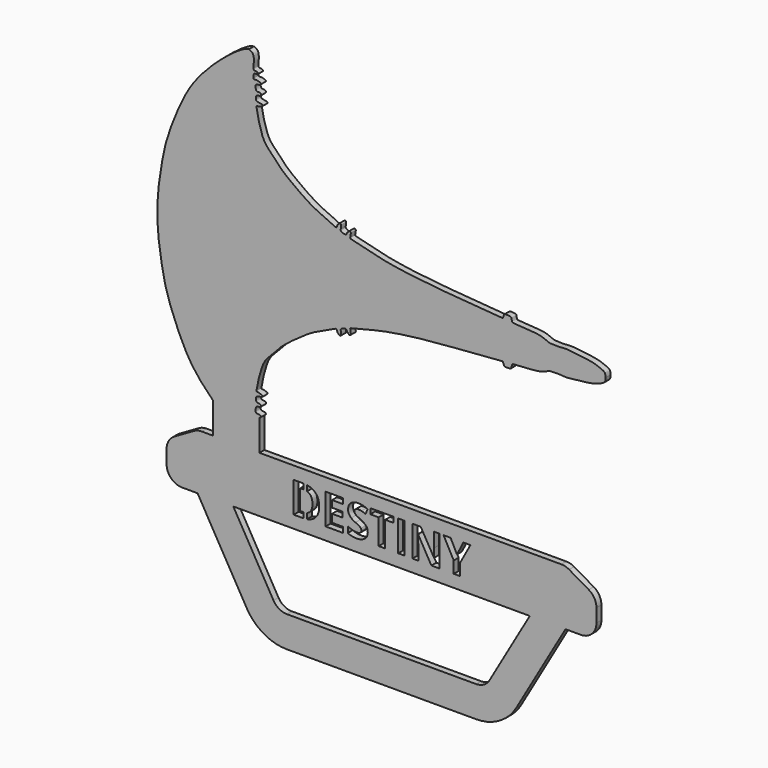
from build123d import *

# Parameters (mm, degrees)
F1_DEPTH = 2
F2_W     = 2.1028645833
F2_H     = 9.9153645833
F3_DEPTH = 2
F5_DEPTH = 2
F6_R     = 5
F7_R     = 15


with BuildPart() as f1:
    # F0 (on Front) → F1 (new body)
    with BuildSketch(Plane.XZ):
        with BuildLine():
            add(Edge.make_bspline(
                [(-25.6579965353, 55.9421218932), (-25.2596935321, 55.7807542414), (-24.4191629942, 55.4402234445), (-23.9607891725, 53.879547366), (-24.1719489365, 51.6246333201), (-24.3241491067, 50.6613180882), (-23.6955274649, 50.3392218475), (-23.2335181468, 50.4388537859), (-22.7584026297, 50.1707458548), (-22.6955515688, 49.6928238068), (-23.2768015575, 49.6146166523), (-23.8217239561, 49.7016776792), (-24.1701957292, 49.31446376), (-24.2253709324, 48.8057752089), (-24.1199713856, 48.3099081057), (-24.3272559419, 47.8544550611), (-23.1380374981, 48.0060264538), (-22.6623931306, 47.8076343895), (-21.8079224591, 47.6272380483), (-21.7771868962, 47.0634354886), (-22.5756411308, 46.7728595059), (-23.4391657392, 46.8775152012), (-23.5815936396, 45.8941889089), (-23.3479382562, 44.7421417082), (-22.6879642534, 44.7550457308), (-21.7795773426, 44.7334926692), (-21.6909695481, 43.8346539963), (-22.6351860672, 43.7119493916), (-23.3224685255, 43.7078986077), (-23.4377928507, 42.6976491826), (-23.3027327943, 41.8710496142), (-22.3992281672, 41.8362177059), (-21.8328069338, 41.645343253), (-21.251956632, 41.6557223314), (-21.2958691246, 40.9884399452), (-21.8342865935, 40.9929792945), (-22.4116369996, 40.6243337434), (-23.3372889482, 40.7045557811), (-23.1279550655, 39.8935017097), (-22.8204399055, 37.8527809877), (-21.9161427964, 34.2775039615), (-20.6251984832, 30.6420097094), (-17.4618304636, 27.8602422726), (-15.3757583207, 25.1545866503), (-11.1227028294, 21.9726370339), (-5.2054895054, 17.6431643536), (0.5203557302, 15.4217716998), (2.6751470565, 14.1101353474), (2.7585201329, 15.1275140287), (3.3736426527, 15.785782818), (3.6469544613, 16.0189304798), (4.08330845, 15.8900873589), (4.1051400999, 15.4634252898), (4.0808491266, 14.6163734471), (3.8155566843, 14.0722517572), (4.6415067796, 13.4466423206), (5.8687274534, 13.3034251807), (5.9021633706, 13.9694104735), (6.3890810222, 14.4064242932), (6.7519696932, 14.8450905882), (7.2967993378, 14.677212139), (7.2129149524, 13.995918304), (7.1694729256, 13.4240414132), (6.9172914004, 12.7082519567), (8.09755688, 12.5564305592), (13.5540353879, 11.0564615141), (19.0643619361, 9.822340629), (26.2244984367, 8.7390514529), (34.9079015957, 7.7717331261), (41.138040168, 7.3562327739), (49.2745340367, 6.7429662567), (56.0323312693, 6.0574605393), (56.379319878, 6.2568894061), (56.5897794176, 6.7711975258), (56.7802107053, 7.3846827221), (57.0933147248, 7.5693404052), (58.7012701073, 7.457641478), (59.1256978044, 7.255275928), (59.2081820929, 6.5474579215), (59.2670836541, 6.0713612363), (59.5946058665, 5.8128733256), (60.5348644651, 5.857696572), (65.2206349661, 5.5010822648), (68.9149015119, 5.2163614808), (71.5261419938, 3.8195583839), (72.1802139455, 4.0236636212), (74.280335334, 3.7568419575), (76.770304045, 4.1740031242), (79.1666108914, 3.7379267507), (83.0818418153, 3.4158489764), (86.0653644255, 2.9136533689), (88.3779083496, 1.9656452105), (89.4613460468, 1.3660594936), (89.4984560381, 0.466925857), (89.5177274942, 0)],
                knots=[0, 0, 0, 0, 0.0104342785, 0.0220192408, 0.0363539313, 0.0450802406, 0.0520553552, 0.0585033871, 0.0651000601, 0.0705839048, 0.0771478436, 0.0841110939, 0.0903673371, 0.097028108, 0.1038242228, 0.1088612149, 0.1179801081, 0.1254993834, 0.1336993844, 0.1393890903, 0.1476440164, 0.1557432615, 0.1643364361, 0.1740039885, 0.1810599145, 0.1894888752, 0.1966269045, 0.2051669152, 0.2124189237, 0.2212572344, 0.2293209451, 0.2375798301, 0.2451582512, 0.2515218225, 0.2577538805, 0.2640203839, 0.2720074456, 0.2799535588, 0.2869168637, 0.3003873822, 0.3186004793, 0.3370784883, 0.3559780379, 0.3732155135, 0.3945941861, 0.4205258907, 0.4442820507, 0.4568590605, 0.4644826869, 0.4734433831, 0.4788842925, 0.4844218012, 0.4902417497, 0.4989517536, 0.5056589543, 0.5146854849, 0.5243431403, 0.5309285843, 0.5385350974, 0.5453869674, 0.5512998662, 0.5585462576, 0.5660813892, 0.5730696241, 0.5815789628, 0.6036800761, 0.626654494, 0.6519557989, 0.6796083851, 0.7031144868, 0.7310802554, 0.7544386338, 0.7592030576, 0.7660330285, 0.7734326184, 0.7788588642, 0.7906380041, 0.7969064571, 0.8044937824, 0.8109936398, 0.8163107161, 0.82484812, 0.8450464285, 0.864216822, 0.8793563907, 0.8867544548, 0.8999988599, 0.9150262044, 0.9297084528, 0.948265339, 0.9649737911, 0.9796175076, 0.9894152411, 1, 1, 1, 1], degree=3))
            add(Edge.make_bspline(
                [(-25.6579965353, 55.9421218932), (-26.1392927659, 55.8489616191), (-27.6847340008, 55.549824165), (-34.9237006505, 50.3306810954), (-43.1442550524, 41.8488811033), (-47.3608978233, 34.447471491), (-52.0337669924, 23.2138563286), (-53.641054019, 15.7615071765), (-55.1439903017, 6.3644331906), (-55.1842430483, 1.9824921822), (-55.2024543285, 0)],
                knots=[0, 0, 0, 0, 0.0589326611, 0.1892326571, 0.343829692, 0.4752815326, 0.6275545586, 0.7530728895, 0.8882844235, 1, 1, 1, 1], degree=3))
            add(Edge.make_bspline(
                [(-25.6579965353, -55.9421218932), (-26.1392927659, -55.8489616191), (-27.6847340008, -55.549824165), (-34.9237006505, -50.3306810954), (-43.1442550524, -41.8488811033), (-47.3608978233, -34.447471491), (-52.0337669924, -23.2138563286), (-53.641054019, -15.7615071765), (-55.1439903017, -6.3644331906), (-55.1842430483, -1.9824921822), (-55.2024543285, 0)],
                knots=[0, 0, 0, 0, 0.0589326611, 0.1892326571, 0.343829692, 0.4752815326, 0.6275545586, 0.7530728895, 0.8882844235, 1, 1, 1, 1], degree=3))
            add(Edge.make_bspline(
                [(-25.6579965353, -55.9421218932), (-25.2596935321, -55.7807542414), (-24.4191629942, -55.4402234445), (-23.9607891725, -53.879547366), (-24.1719489365, -51.6246333201), (-24.3241491067, -50.6613180882), (-23.6955274649, -50.3392218475), (-23.2335181468, -50.4388537859), (-22.7584026297, -50.1707458548), (-22.6955515688, -49.6928238068), (-23.2768015575, -49.6146166523), (-23.8217239561, -49.7016776792), (-24.1701957292, -49.31446376), (-24.2253709324, -48.8057752089), (-24.1199713856, -48.3099081057), (-24.3272559419, -47.8544550611), (-23.1380374981, -48.0060264538), (-22.6623931306, -47.8076343895), (-21.8079224591, -47.6272380483), (-21.7771868962, -47.0634354886), (-22.5756411308, -46.7728595059), (-23.4391657392, -46.8775152012), (-23.5815936396, -45.8941889089), (-23.3479382562, -44.7421417082), (-22.6879642534, -44.7550457308), (-21.7795773426, -44.7334926692), (-21.6909695481, -43.8346539963), (-22.6351860672, -43.7119493916), (-23.3224685255, -43.7078986077), (-23.4377928507, -42.6976491826), (-23.3027327943, -41.8710496142), (-22.3992281672, -41.8362177059), (-21.8328069338, -41.645343253), (-21.251956632, -41.6557223314), (-21.2958691246, -40.9884399452), (-21.8342865935, -40.9929792945), (-22.4116369996, -40.6243337434), (-23.3372889482, -40.7045557811), (-23.1279550655, -39.8935017097), (-22.8204399055, -37.8527809877), (-21.9161427964, -34.2775039615), (-20.6251984832, -30.6420097094), (-17.4618304636, -27.8602422726), (-15.3757583207, -25.1545866503), (-11.1227028294, -21.9726370339), (-5.2054895054, -17.6431643536), (0.5203557302, -15.4217716998), (2.6751470565, -14.1101353474), (2.7585201329, -15.1275140287), (3.3736426527, -15.785782818), (3.6469544613, -16.0189304798), (4.08330845, -15.8900873589), (4.1051400999, -15.4634252898), (4.0808491266, -14.6163734471), (3.8155566843, -14.0722517572), (4.6415067796, -13.4466423206), (5.8687274534, -13.3034251807), (5.9021633706, -13.9694104735), (6.3890810222, -14.4064242932), (6.7519696932, -14.8450905882), (7.2967993378, -14.677212139), (7.2129149524, -13.995918304), (7.1694729256, -13.4240414132), (6.9172914004, -12.7082519567), (8.09755688, -12.5564305592), (13.5540353879, -11.0564615141), (19.0643619361, -9.822340629), (26.2244984367, -8.7390514529), (34.9079015957, -7.7717331261), (41.138040168, -7.3562327739), (49.2745340367, -6.7429662567), (56.0323312693, -6.0574605393), (56.379319878, -6.2568894061), (56.5897794176, -6.7711975258), (56.7802107053, -7.3846827221), (57.0933147248, -7.5693404052), (58.7012701073, -7.457641478), (59.1256978044, -7.255275928), (59.2081820929, -6.5474579215), (59.2670836541, -6.0713612363), (59.5946058665, -5.8128733256), (60.5348644651, -5.857696572), (65.2206349661, -5.5010822648), (68.9149015119, -5.2163614808), (71.5261419938, -3.8195583839), (72.1802139455, -4.0236636212), (74.280335334, -3.7568419575), (76.770304045, -4.1740031242), (79.1666108914, -3.7379267507), (83.0818418153, -3.4158489764), (86.0653644255, -2.9136533689), (88.3779083496, -1.9656452105), (89.4613460468, -1.3660594936), (89.4984560381, -0.466925857), (89.5177274942, 0)],
                knots=[0, 0, 0, 0, 0.0104342785, 0.0220192408, 0.0363539313, 0.0450802406, 0.0520553552, 0.0585033871, 0.0651000601, 0.0705839048, 0.0771478436, 0.0841110939, 0.0903673371, 0.097028108, 0.1038242228, 0.1088612149, 0.1179801081, 0.1254993834, 0.1336993844, 0.1393890903, 0.1476440164, 0.1557432615, 0.1643364361, 0.1740039885, 0.1810599145, 0.1894888752, 0.1966269045, 0.2051669152, 0.2124189237, 0.2212572344, 0.2293209451, 0.2375798301, 0.2451582512, 0.2515218225, 0.2577538805, 0.2640203839, 0.2720074456, 0.2799535588, 0.2869168637, 0.3003873822, 0.3186004793, 0.3370784883, 0.3559780379, 0.3732155135, 0.3945941861, 0.4205258907, 0.4442820507, 0.4568590605, 0.4644826869, 0.4734433831, 0.4788842925, 0.4844218012, 0.4902417497, 0.4989517536, 0.5056589543, 0.5146854849, 0.5243431403, 0.5309285843, 0.5385350974, 0.5453869674, 0.5512998662, 0.5585462576, 0.5660813892, 0.5730696241, 0.5815789628, 0.6036800761, 0.626654494, 0.6519557989, 0.6796083851, 0.7031144868, 0.7310802554, 0.7544386338, 0.7592030576, 0.7660330285, 0.7734326184, 0.7788588642, 0.7906380041, 0.7969064571, 0.8044937824, 0.8109936398, 0.8163107161, 0.82484812, 0.8450464285, 0.864216822, 0.8793563907, 0.8867544548, 0.8999988599, 0.9150262044, 0.9297084528, 0.948265339, 0.9649737911, 0.9796175076, 0.9894152411, 1, 1, 1, 1], degree=3))
        make_face()
    extrude(amount=F1_DEPTH)

    # F2 (on face) → F3 (join, through all)
    with BuildSketch(Plane.XZ.offset(2)):
        Polygon((56.3754675717, -110.717872268), (76.5827269934, -75.717872268), (65.0357216096, -75.717872268), (50.6019648798, -100.717872268), (-16.2866917141, -100.717872268), (-30.7204484439, -75.717872268), (-42.2674538277, -75.717872268), (-22.060194406, -110.717872268), align=None)
        with BuildLine():
            add(Edge.make_bspline(
                [(-25.6579965353, -55.9421218932), (-25.2596935321, -55.7807542414), (-24.4191629942, -55.4402234445), (-23.9607891725, -53.879547366), (-24.1719489365, -51.6246333201), (-24.3241491067, -50.6613180882), (-23.6955274649, -50.3392218475), (-23.2335181468, -50.4388537859), (-22.7584026297, -50.1707458548), (-22.6955515688, -49.6928238068), (-23.2768015575, -49.6146166523), (-23.8217239561, -49.7016776792), (-24.1701957292, -49.31446376), (-24.2253709324, -48.8057752089), (-24.1199713856, -48.3099081057), (-24.3272559419, -47.8544550611), (-23.1380374981, -48.0060264538), (-22.7522356963, -47.8451078745), (-22.3804355397, -47.7536306112), (-22.2674538277, -47.717872268)],
                knots=[0, 0, 0, 0, 0.0104342785, 0.0220192408, 0.0363539313, 0.0450802406, 0.0520553552, 0.0585033871, 0.0651000601, 0.0705839048, 0.0771478436, 0.0841110939, 0.0903673371, 0.097028108, 0.1038242228, 0.1088612149, 0.1179801081, 0.1254993834, 0.1290078017, 0.1290078017, 0.1290078017, 0.1290078017], degree=3))
            Line((-22.2674538277, -47.717872268), (-37.2674538277, -47.717872268))
            add(Edge.make_bspline(
                [(-25.6579965353, -55.9421218932), (-26.1392927659, -55.8489616191), (-27.6847340008, -55.549824165), (-32.6943601509, -51.9379888205), (-36.3159280116, -48.6366878856), (-37.2674538277, -47.717872268)],
                knots=[0, 0, 0, 0, 0.0589326611, 0.1892326571, 0.2379425544, 0.2379425544, 0.2379425544, 0.2379425544], degree=3))
        make_face()
        with BuildLine():
            Line((-22.2674538277, -57.717872268), (-22.2674538277, -47.717872268))
            add(Edge.make_bspline(
                [(-25.6579965353, -55.9421218932), (-25.2596935321, -55.7807542414), (-24.4191629942, -55.4402234445), (-23.9607891725, -53.879547366), (-24.1719489365, -51.6246333201), (-24.3241491067, -50.6613180882), (-23.6955274649, -50.3392218475), (-23.2335181468, -50.4388537859), (-22.7584026297, -50.1707458548), (-22.6955515688, -49.6928238068), (-23.2768015575, -49.6146166523), (-23.8217239561, -49.7016776792), (-24.1701957292, -49.31446376), (-24.2253709324, -48.8057752089), (-24.1199713856, -48.3099081057), (-24.3272559419, -47.8544550611), (-23.1380374981, -48.0060264538), (-22.7522356963, -47.8451078745), (-22.3804355397, -47.7536306112), (-22.2674538277, -47.717872268)],
                knots=[0, 0, 0, 0, 0.0104342785, 0.0220192408, 0.0363539313, 0.0450802406, 0.0520553552, 0.0585033871, 0.0651000601, 0.0705839048, 0.0771478436, 0.0841110939, 0.0903673371, 0.097028108, 0.1038242228, 0.1088612149, 0.1179801081, 0.1254993834, 0.1290078017, 0.1290078017, 0.1290078017, 0.1290078017], degree=3))
            add(Edge.make_bspline(
                [(-25.6579965353, -55.9421218932), (-26.1392927659, -55.8489616191), (-27.6847340008, -55.549824165), (-32.6943601509, -51.9379888205), (-36.3159280116, -48.6366878856), (-37.2674538277, -47.717872268)],
                knots=[0, 0, 0, 0, 0.0589326611, 0.1892326571, 0.2379425544, 0.2379425544, 0.2379425544, 0.2379425544], degree=3))
            Line((-37.2674538277, -47.717872268), (-37.2674538277, -57.717872268))
            Line((-37.2674538277, -57.717872268), (-22.2674538277, -57.717872268))
        make_face()
        Polygon((76.5827269934, -57.717872268), (-22.2674538277, -57.717872268), (-37.2674538277, -57.717872268), (-42.2674538277, -57.717872268), (-52.2674538277, -63.4913749599), (-52.2674538277, -75.717872268), (-42.2674538277, -75.717872268), (-30.7204484439, -75.717872268), (65.0357216096, -75.717872268), (76.5827269934, -75.717872268), (86.5827269934, -75.717872268), (86.5827269934, -63.4913749599), align=None)
        with BuildLine():
            add(Edge.make_bspline(
                [(-4.3158877227, -63.0839746986), (-2.9725717505, -64.3654417124), (-2.9725717505, -66.6657889347)],
                knots=[0, 0, 0, 1, 1, 1], degree=2))
            add(Edge.make_bspline(
                [(-2.9725717505, -66.6657889347), (-2.9725717505, -69.1137056013), (-4.3668859866, -70.4157889347)],
                knots=[0, 0, 0, 1, 1, 1], degree=2))
            add(Edge.make_bspline(
                [(-4.3668859866, -70.4157889347), (-5.7612002227, -71.717872268), (-8.391408556, -71.717872268)],
                knots=[0, 0, 0, 1, 1, 1], degree=2))
            Line((-8.391408556, -71.717872268), (-11.1995682783, -71.717872268))
            Line((-11.1995682783, -71.717872268), (-11.1995682783, -61.8025076847))
            Line((-11.1995682783, -61.8025076847), (-8.0875891116, -61.8025076847))
            add(Edge.make_bspline(
                [(-8.0875891116, -61.8025076847), (-5.6592036949, -61.8025076847), (-4.3158877227, -63.0839746986)],
                knots=[0, 0, 0, 1, 1, 1], degree=2))
        make_face(mode=Mode.SUBTRACT)
        Polygon((4.792185194, -69.9817611569), (4.792185194, -71.717872268), (-0.9174502227, -71.717872268), (-0.9174502227, -61.8025076847), (4.792185194, -61.8025076847), (4.792185194, -63.5255979624), (1.1854143606, -63.5255979624), (1.1854143606, -65.702247268), (4.5426192217, -65.702247268), (4.5426192217, -67.4253375458), (1.1854143606, -67.4253375458), (1.1854143606, -69.9817611569), align=None, mode=Mode.SUBTRACT)
        with BuildLine():
            add(Edge.make_bspline(
                [(12.1977841523, -67.3265962263), (12.7131921384, -67.9939139347), (12.7131921384, -68.963966018)],
                knots=[0, 0, 0, 1, 1, 1], degree=2))
            add(Edge.make_bspline(
                [(12.7131921384, -68.963966018), (12.7131921384, -70.3072819902), (11.7463952634, -71.0809365041)],
                knots=[0, 0, 0, 1, 1, 1], degree=2))
            add(Edge.make_bspline(
                [(11.7463952634, -71.0809365041), (10.7795983884, -71.854591018), (9.0586782495, -71.854591018)],
                knots=[0, 0, 0, 1, 1, 1], degree=2))
            add(Edge.make_bspline(
                [(9.0586782495, -71.854591018), (7.4701365829, -71.854591018), (6.2505185273, -71.2556326847)],
                knots=[0, 0, 0, 1, 1, 1], degree=2))
            Line((6.2505185273, -71.2556326847), (6.2505185273, -69.3025076847))
            add(Edge.make_bspline(
                [(6.2505185273, -69.3025076847), (7.253122694, -69.7517264347), (7.9486522079, -69.9340181013)],
                knots=[0, 0, 0, 1, 1, 1], degree=2))
            add(Edge.make_bspline(
                [(7.9486522079, -69.9340181013), (8.6441817217, -70.116309768), (9.2214386662, -70.116309768)],
                knots=[0, 0, 0, 1, 1, 1], degree=2))
            add(Edge.make_bspline(
                [(9.2214386662, -70.116309768), (9.9115428329, -70.116309768), (10.2815515134, -69.852637893)],
                knots=[0, 0, 0, 1, 1, 1], degree=2))
            add(Edge.make_bspline(
                [(10.2815515134, -69.852637893), (10.651560194, -69.588966018), (10.651560194, -69.0659625458)],
                knots=[0, 0, 0, 1, 1, 1], degree=2))
            add(Edge.make_bspline(
                [(10.651560194, -69.0659625458), (10.651560194, -68.7751639347), (10.4887997773, -68.5472993513)],
                knots=[0, 0, 0, 1, 1, 1], degree=2))
            add(Edge.make_bspline(
                [(10.4887997773, -68.5472993513), (10.3260393606, -68.319434768), (10.0102841523, -68.1100163652)],
                knots=[0, 0, 0, 1, 1, 1], degree=2))
            add(Edge.make_bspline(
                [(10.0102841523, -68.1100163652), (9.694528944, -67.9005979624), (8.7244768606, -67.4383583791)],
                knots=[0, 0, 0, 1, 1, 1], degree=2))
            add(Edge.make_bspline(
                [(8.7244768606, -67.4383583791), (7.8173588051, -67.010841018), (7.3627147079, -66.6180458791)],
                knots=[0, 0, 0, 1, 1, 1], degree=2))
            add(Edge.make_bspline(
                [(7.3627147079, -66.6180458791), (6.9080706106, -66.2252507402), (6.6368032495, -65.702247268)],
                knots=[0, 0, 0, 1, 1, 1], degree=2))
            add(Edge.make_bspline(
                [(6.6368032495, -65.702247268), (6.3655358884, -65.1792437958), (6.3655358884, -64.4826292124)],
                knots=[0, 0, 0, 1, 1, 1], degree=2))
            add(Edge.make_bspline(
                [(6.3655358884, -64.4826292124), (6.3655358884, -63.1653549069), (7.2574629717, -62.4134017819)],
                knots=[0, 0, 0, 1, 1, 1], degree=2))
            add(Edge.make_bspline(
                [(7.2574629717, -62.4134017819), (8.1493900551, -61.6614486569), (9.7227407495, -61.6614486569)],
                knots=[0, 0, 0, 1, 1, 1], degree=2))
            add(Edge.make_bspline(
                [(9.7227407495, -61.6614486569), (10.495310194, -61.6614486569), (11.1973501245, -61.8437403236)],
                knots=[0, 0, 0, 1, 1, 1], degree=2))
            add(Edge.make_bspline(
                [(11.1973501245, -61.8437403236), (11.8993900551, -62.0260319902), (12.6654490829, -62.3580632402)],
                knots=[0, 0, 0, 1, 1, 1], degree=2))
            Line((12.6654490829, -62.3580632402), (11.9883657495, -63.9943479624))
            add(Edge.make_bspline(
                [(11.9883657495, -63.9943479624), (11.1940949162, -63.6688271291), (10.6754317217, -63.5397038652)],
                knots=[0, 0, 0, 1, 1, 1], degree=2))
            add(Edge.make_bspline(
                [(10.6754317217, -63.5397038652), (10.1567685273, -63.4105806013), (9.655466444, -63.4105806013)],
                knots=[0, 0, 0, 1, 1, 1], degree=2))
            add(Edge.make_bspline(
                [(9.655466444, -63.4105806013), (9.0586782495, -63.4105806013), (8.7396678329, -63.6883583791)],
                knots=[0, 0, 0, 1, 1, 1], degree=2))
            add(Edge.make_bspline(
                [(8.7396678329, -63.6883583791), (8.4206574162, -63.9661361569), (8.4206574162, -64.413184768)],
                knots=[0, 0, 0, 1, 1, 1], degree=2))
            add(Edge.make_bspline(
                [(8.4206574162, -64.413184768), (8.4206574162, -64.6909625458), (8.5497806801, -64.8982108097)],
                knots=[0, 0, 0, 1, 1, 1], degree=2))
            add(Edge.make_bspline(
                [(8.5497806801, -64.8982108097), (8.678903944, -65.1054590736), (8.9599369301, -65.2986014347)],
                knots=[0, 0, 0, 1, 1, 1], degree=2))
            add(Edge.make_bspline(
                [(8.9599369301, -65.2986014347), (9.2409699162, -65.4917437958), (10.2913171384, -65.9930458791)],
                knots=[0, 0, 0, 1, 1, 1], degree=2))
            add(Edge.make_bspline(
                [(10.2913171384, -65.9930458791), (11.6823761662, -66.659278518), (12.1977841523, -67.3265962263)],
                knots=[0, 0, 0, 1, 1, 1], degree=2))
        make_face(mode=Mode.SUBTRACT)
        Polygon((18.3360219995, -63.5516396291), (18.3360219995, -71.717872268), (16.2331574162, -71.717872268), (16.2331574162, -63.5516396291), (13.5400150551, -63.5516396291), (13.5400150551, -61.8025076847), (21.0269942217, -61.8025076847), (21.0269942217, -63.5516396291), align=None, mode=Mode.SUBTRACT)
        with Locations((23.6040341523, -66.7601899763)):
            Rectangle(F2_W, F2_H, mode=Mode.SUBTRACT)
        with BuildLine():
            Line((35.9466990829, -61.8025076847), (35.9466990829, -71.717872268))
            Line((35.9466990829, -71.717872268), (33.2752581106, -71.717872268))
            Line((33.2752581106, -71.717872268), (28.9610219995, -64.217872268))
            Line((28.9610219995, -64.217872268), (28.9002581106, -64.217872268))
            add(Edge.make_bspline(
                [(28.9002581106, -64.217872268), (29.030466444, -66.2035493513), (29.030466444, -67.0520736569)],
                knots=[0, 0, 0, 1, 1, 1], degree=2))
            Line((29.030466444, -67.0520736569), (29.030466444, -71.717872268))
            Line((29.030466444, -71.717872268), (27.1511261662, -71.717872268))
            Line((27.1511261662, -71.717872268), (27.1511261662, -61.8025076847))
            Line((27.1511261662, -61.8025076847), (29.8030358884, -61.8025076847))
            Line((29.8030358884, -61.8025076847), (34.108591444, -69.2287229624))
            Line((34.108591444, -69.2287229624), (34.1563344995, -69.2287229624))
            add(Edge.make_bspline(
                [(34.1563344995, -69.2287229624), (34.0543379717, -67.2951292124), (34.0543379717, -66.4965181013)],
                knots=[0, 0, 0, 1, 1, 1], degree=2))
            Line((34.0543379717, -66.4965181013), (34.0543379717, -61.8025076847))
            Line((34.0543379717, -61.8025076847), (35.9466990829, -61.8025076847))
        make_face(mode=Mode.SUBTRACT)
        Polygon((39.4731747773, -61.8025076847), (41.5282963051, -65.8845389347), (43.5964386662, -61.8025076847), (45.8620636662, -61.8025076847), (42.5721331106, -67.8593653236), (42.5721331106, -71.717872268), (40.4844594995, -71.717872268), (40.4844594995, -67.9266396291), (37.194528944, -61.8025076847), align=None, mode=Mode.SUBTRACT)
    extrude(amount=-F3_DEPTH)



with BuildPart() as f3:
    # F2 (on face) → F3, piece 2 (new body, through all)
    with BuildSketch(Plane.XZ.offset(2)):
        with BuildLine():
            add(Edge.make_bspline(
                [(-8.196096056, -69.9817611569), (-5.1579016116, -69.9817611569), (-5.1579016116, -66.7200424069)],
                knots=[0, 0, 0, 1, 1, 1], degree=2))
            add(Edge.make_bspline(
                [(-5.1579016116, -66.7200424069), (-5.1579016116, -63.5255979624), (-7.9790821671, -63.5255979624)],
                knots=[0, 0, 0, 1, 1, 1], degree=2))
            Line((-7.9790821671, -63.5255979624), (-9.0967036949, -63.5255979624))
            Line((-9.0967036949, -63.5255979624), (-9.0967036949, -69.9817611569))
            Line((-9.0967036949, -69.9817611569), (-8.196096056, -69.9817611569))
        make_face()
    extrude(amount=-F3_DEPTH)


with BuildPart() as f1_1:
    add(f1.part)

    add(f3.part)  # F5 merges F3
    # F4 (on face) → F5 (join, through all)
    with BuildSketch(Plane.XZ.offset(2)):
        with BuildLine():
            add(Edge.make_bspline(
                [(-8.0875891116, -61.8025076847), (-7.450213999, -61.8025076847), (-6.8875891116, -61.8907877006)],
                knots=[0, 0, 0, 0.2624686791, 0.2624686791, 0.2624686791], degree=2))
            Line((-8.0875891116, -61.8025076847), (-8.0875891116, -71.7134068395))
            add(Edge.make_bspline(
                [(-6.8875891116, -71.5941993159), (-7.4490822434, -71.6943722101), (-8.0875891116, -71.7134068395)],
                knots=[3.8003416373, 3.8003416373, 3.8003416373, 4.0659836134, 4.0659836134, 4.0659836134], degree=2))
            Line((-6.8875891116, -71.5941993159), (-6.8875891116, -61.8907877006))
        make_face()
    extrude(amount=-F5_DEPTH)

    # F6
    f6_edges = [f1_1.edges().sort_by_distance(p)[0] for p in [
        (-42.267454, -1, -57.717872),
        (-52.267454, -1, -63.491375),
        (-52.267454, -1, -75.717872),
        (86.582727, -1, -75.717872),
        (86.582727, -1, -63.491375),
        (76.582727, -1, -57.717872),
        (50.601965, -1, -100.717872),
        (-16.286692, -1, -100.717872),
    ]]
    fillet(f6_edges, radius=F6_R)

    # F7
    f7_edges = [f1_1.edges().sort_by_distance(p)[0] for p in [
        (-22.060194, -1, -110.717872),
        (56.375468, -1, -110.717872),
    ]]
    fillet(f7_edges, radius=F7_R)


solid = f1_1.part
